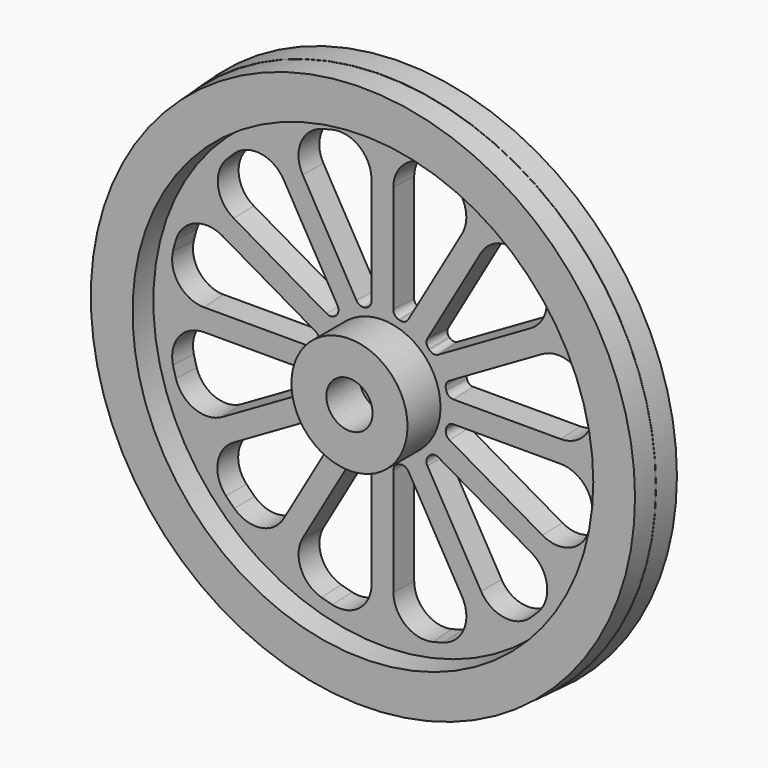
from build123d import *

# Parameters (mm, degrees)
F0_R     = 45
F0_R_2   = 2.5
F1_DEPTH = 4
F1_TAPER = 3
F2_R     = 44.75
F2_R_2   = 37.5
F3_DEPTH = 4
F3_TAPER = 3
F2_R_3   = 9.5
F2_R_4   = 3.7810244817
F4_DEPTH = 6.75


with BuildPart() as f1:
    # F0 (on Front) → F1 (new body)
    with BuildSketch(Plane.XZ):
        Circle(F0_R)
        with BuildLine():
            ThreePointArc((-7.7332465133, -7.8923211231), (-7.4423507552, -8.4710185648), (-7.5670929905, -9.1065895252))
            Line((-7.5670929905, -9.1065895252), (-16.3406060143, -24.3027598432))
            ThreePointArc((-16.3406060143, -24.3027598432), (-19.9521162541, -26.7508493659), (-24.1108143235, -25.4312362061))
            ThreePointArc((-24.1108143235, -25.4312362061), (-24.7875642401, -24.7720770497), (-25.4463003045, -24.0949152961))
            ThreePointArc((-25.4463003045, -24.0949152961), (-26.7634194196, -19.9361159915), (-24.314233181, -16.3261435278))
            Line((-24.314233181, -16.3261435278), (-9.1152709039, -7.5577626855))
            ThreePointArc((-9.1152709039, -7.5577626855), (-8.4792961859, -7.433281772), (-7.9005463904, -7.7248431103))
            ThreePointArc((-7.9005463904, -7.7248431103), (-7.8173449687, -7.8090301566), (-7.7332465133, -7.8923211231))
        make_face(mode=Mode.SUBTRACT)
        with BuildLine():
            ThreePointArc((-2.7391846437, -10.593931168), (-2.198840383, -10.949853931), (-1.9895139163, -11.562091927))
            Line((-1.9895139163, -11.562091927), (-1.9895139163, -29.1725515023))
            ThreePointArc((-1.9895139163, -29.1725515023), (-3.8931408332, -33.0984238551), (-8.1545034084, -34.0349376947))
            ThreePointArc((-8.1545034084, -34.0349376947), (-9.0521205265, -33.8072776735), (-9.943400166, -33.5559488445))
            ThreePointArc((-9.943400166, -33.5559488445), (-13.1669817727, -30.6145465635), (-12.8529677555, -26.2619931806))
            Line((-12.8529677555, -26.2619931806), (-4.0476369691, -11.0107128811))
            ThreePointArc((-4.0476369691, -11.0107128811), (-3.5606556514, -10.5853342663), (-2.9151968467, -10.5468543865))
            ThreePointArc((-2.9151968467, -10.5468543865), (-2.8272887305, -10.5707591278), (-2.7391846437, -10.593931168))
        make_face(mode=Mode.SUBTRACT)
        with BuildLine():
            ThreePointArc((-10.6105647342, -2.9217038441), (-10.6466062006, -3.5698264202), (-11.0729908098, -4.0592730731))
            Line((-11.0729908098, -4.0592730731), (-26.3058778862, -12.8539845272))
            ThreePointArc((-26.3058778862, -12.8539845272), (-30.6593196424, -13.1676440727), (-33.6003766949, -9.9425827014))
            ThreePointArc((-33.6003766949, -9.9425827014), (-33.8498412022, -9.056959501), (-34.0759672052, -8.1650917842))
            ThreePointArc((-34.0759672052, -8.1650917842), (-33.1395104449, -3.9036682123), (-29.2136055224, -2))
            Line((-29.2136055224, -2), (-11.6257419359, -2))
            ThreePointArc((-11.6257419359, -2), (-11.0154594792, -2.2078161053), (-10.658830069, -2.7448893541))
            ThreePointArc((-10.658830069, -2.7448893541), (-10.6350739002, -2.8333993725), (-10.6105647342, -2.9217038441))
        make_face(mode=Mode.SUBTRACT)
        with BuildLine():
            ThreePointArc((2.9382255406, -10.6003221966), (3.5840465412, -10.6384722929), (4.0713623572, -11.0639878509))
            Line((4.0713623572, -11.0639878509), (12.8514282804, -26.2715081238))
            ThreePointArc((12.8514282804, -26.2715081238), (13.165313275, -30.6243849191), (9.9411929772, -33.5656615961))
            ThreePointArc((9.9411929772, -33.5656615961), (9.0569154603, -33.8149854138), (8.1663995562, -34.04101753))
            ThreePointArc((8.1663995562, -34.04101753), (3.9041962095, -33.1052906865), (2, -29.1789693942))
            Line((2, -29.1789693942), (2, -11.6189500386))
            ThreePointArc((2, -11.6189500386), (2.209430585, -11.0065776029), (2.75, -10.6507042021))
            ThreePointArc((2.75, -10.6507042021), (2.8442243296, -10.6259299811), (2.9382255406, -10.6003221966))
        make_face(mode=Mode.SUBTRACT)
        with BuildLine():
            Line((16.3149614017, -24.2705234635), (7.5370365835, -9.0667116934))
            ThreePointArc((7.5370365835, -9.0667116934), (7.4122579998, -8.4314066364), (7.7028068217, -7.8528190523))
            ThreePointArc((7.7028068217, -7.8528190523), (7.77613579, -7.7802128618), (7.8487804072, -7.7069219614))
            ThreePointArc((7.8487804072, -7.7069219614), (8.4272605204, -7.4167118159), (9.0623058988, -7.5415258269))
            Line((9.0623058988, -7.5415258269), (24.266213128, -16.3195057584))
            ThreePointArc((24.266213128, -16.3195057584), (26.7144203347, -19.9318267871), (25.3935619332, -24.0909029855))
            ThreePointArc((25.3935619332, -24.0909029855), (24.7482203506, -24.7533873195), (24.0856013098, -25.398590588))
            ThreePointArc((24.0856013098, -25.398590588), (19.9267659413, -26.7186557188), (16.3149614017, -24.2705234635))
        make_face(mode=Mode.SUBTRACT)
        with BuildLine():
            ThreePointArc((10.6532945924, -2.7551236961), (11.0083883053, -2.2110525037), (11.6228489208, -2))
            Line((11.6228489208, -2), (29.1749099017, -2))
            ThreePointArc((29.1749099017, -2), (33.1012800508, -3.9042581741), (34.0369212195, -8.166553019))
            ThreePointArc((34.0369212195, -8.166553019), (33.810226987, -9.0594230171), (33.5601149521, -9.9460182339))
            ThreePointArc((33.5601149521, -9.9460182339), (30.6186785088, -13.1694532637), (26.266213128, -12.8554041433))
            Line((26.266213128, -12.8554041433), (11.0667492889, -4.0799896042))
            ThreePointArc((11.0667492889, -4.0799896042), (10.6421732371, -3.5949617392), (10.6017741173, -2.9516229757))
            ThreePointArc((10.6017741173, -2.9516229757), (10.6279778444, -2.8534896152), (10.6532945924, -2.7551236961))
        make_face(mode=Mode.SUBTRACT)
        with BuildLine():
            Line((-26.3071791418, 12.8790558824), (-11.0623058988, 4.0774242117))
            ThreePointArc((-11.0623058988, 4.0774242117), (-10.6366911053, 3.589865787), (-10.5987804072, 2.9437822406))
            ThreePointArc((-10.5987804072, 2.9437822406), (-10.6251840892, 2.8470094961), (-10.6507042021, 2.75))
            ThreePointArc((-10.6507042021, 2.75), (-11.0065776029, 2.209430585), (-11.6189500386, 2))
            Line((-11.6189500386, 2), (-29.2222133799, 2))
            ThreePointArc((-29.2222133799, 2), (-33.1480149589, 3.9035371854), (-34.0846528227, 8.1647672152))
            ThreePointArc((-34.0846528227, 8.1647672152), (-33.8546596097, 9.0713287025), (-33.6005588312, 9.971430587))
            ThreePointArc((-33.6005588312, 9.971430587), (-30.6587916322, 13.1934451123), (-26.3071791418, 12.8790558824))
        make_face(mode=Mode.SUBTRACT)
        with BuildLine():
            ThreePointArc((-7.8003125205, 7.7411142124), (-8.3776933841, 7.4543279944), (-9.0101075684, 7.5794970639))
            Line((-9.0101075684, 7.5794970639), (-24.2491112391, 16.3777399354))
            ThreePointArc((-24.2491112391, 16.3777399354), (-26.6979620211, 19.9945115465), (-25.3702641963, 24.1556562839))
            ThreePointArc((-25.3702641963, 24.1556562839), (-24.7474264449, 24.7933644398), (-24.1085643014, 25.415018458))
            ThreePointArc((-24.1085643014, 25.415018458), (-19.9496408592, 26.7356776298), (-16.337458819, 24.287632337))
            Line((-16.337458819, 24.287632337), (-7.539236998, 9.0499224532))
            ThreePointArc((-7.539236998, 9.0499224532), (-7.4143630422, 8.4151552362), (-7.7041957074, 7.8367782392))
            ThreePointArc((-7.7041957074, 7.8367782392), (-7.7524016762, 7.7890944865), (-7.8003125205, 7.7411142124))
        make_face(mode=Mode.SUBTRACT)
        with BuildLine():
            Line((-2.0123611874, 29.1427127044), (-2.0123611874, 11.5501757128))
            ThreePointArc((-2.0123611874, 11.5501757128), (-2.2210443156, 10.9387694581), (-2.759996404, 10.5825435429))
            ThreePointArc((-2.759996404, 10.5825435429), (-2.8503500142, 10.5585658489), (-2.940495374, 10.533816732))
            ThreePointArc((-2.940495374, 10.533816732), (-3.5873769901, 10.5711930416), (-4.0755489465, 10.9972692728))
            Line((-4.0755489465, 10.9972692728), (-12.866523076, 26.2348862376))
            ThreePointArc((-12.866523076, 26.2348862376), (-13.1800743807, 30.5852253703), (-9.95941029, 33.5264985307))
            ThreePointArc((-9.95941029, 33.5264985307), (-9.0738872581, 33.7769229961), (-8.1820821438, 34.0039628404))
            ThreePointArc((-8.1820821438, 34.0039628404), (-3.9178987771, 33.0700912692), (-2.0123611874, 29.1427127044))
        make_face(mode=Mode.SUBTRACT)
        Circle(F0_R_2, mode=Mode.SUBTRACT)
        with BuildLine():
            ThreePointArc((10.5934280226, 2.962985442), (10.6305095748, 3.6099758382), (11.0564669338, 4.0983731587))
            Line((11.0564669338, 4.0983731587), (26.2635645877, 12.8781950828))
            ThreePointArc((26.2635645877, 12.8781950828), (30.614280615, 13.1929416021), (33.5563948117, 9.9724200022))
            ThreePointArc((33.5563948117, 9.9724200022), (33.8107658104, 9.0726461836), (34.0410151181, 8.1663996465))
            ThreePointArc((34.0410151181, 8.1663996465), (33.105288325, 3.9041962459), (29.1789670039, 2))
            Line((29.1789670039, 2), (11.6189500386, 2))
            ThreePointArc((11.6189500386, 2), (11.0065776029, 2.209430585), (10.6507042021, 2.75))
            ThreePointArc((10.6507042021, 2.75), (10.6225999263, 2.8566362746), (10.5934280226, 2.962985442))
        make_face(mode=Mode.SUBTRACT)
        with BuildLine():
            Line((1.9876388126, 11.5519245043), (1.9876388126, 29.1435745043))
            ThreePointArc((1.9876388126, 29.1435745043), (3.8915885178, 33.0697014218), (8.1534278415, 34.0057690644))
            ThreePointArc((8.1534278415, 34.0057690644), (9.04875886, 33.7785535262), (9.9377762068, 33.5277693754))
            ThreePointArc((9.9377762068, 33.5277693754), (13.1615347817, 30.5851307802), (12.8457264829, 26.2317405646))
            Line((12.8457264829, 26.2317405646), (4.0420576523, 11.0010494742))
            ThreePointArc((4.0420576523, 11.0010494742), (3.5551990136, 10.5760538516), (2.9100855475, 10.5375671099))
            ThreePointArc((2.9100855475, 10.5375671099), (2.8237624721, 10.5610266542), (2.7372503245, 10.5837790581))
            ThreePointArc((2.7372503245, 10.5837790581), (2.1969465563, 10.9397106888), (1.9876388126, 11.5519245043))
        make_face(mode=Mode.SUBTRACT)
        with BuildLine():
            ThreePointArc((7.711421059, 7.9064918101), (7.429512731, 8.4822662568), (7.5551778026, 9.1109130642))
            Line((7.5551778026, 9.1109130642), (16.2987383406, 24.2552041553))
            ThreePointArc((16.2987383406, 24.2552041553), (19.9104413439, 26.7033216694), (24.0692293488, 25.3834124764))
            ThreePointArc((24.0692293488, 25.3834124764), (24.6978102611, 24.7722344309), (25.3108768464, 24.1454953078))
            ThreePointArc((25.3108768464, 24.1454953078), (26.6422292233, 19.9832510332), (24.193036492, 16.3641031339))
            Line((24.193036492, 16.3641031339), (9.0449681626, 7.6183618062))
            ThreePointArc((9.0449681626, 7.6183618062), (8.4053907466, 7.4941760482), (7.8250613438, 7.7903164843))
            ThreePointArc((7.8250613438, 7.7903164843), (7.7684514675, 7.8486098251), (7.711421059, 7.9064918101))
        make_face(mode=Mode.SUBTRACT)
    extrude(amount=F1_DEPTH, taper=F1_TAPER)

    # F2 (on face) → F3 (join)
    with BuildSketch(Plane.XZ.offset(4)):
        Circle(F2_R)
        Circle(F2_R_2, mode=Mode.SUBTRACT)
    extrude(amount=F3_DEPTH, taper=F3_TAPER)

    # F2 (on face) → F4 (join)
    with BuildSketch(Plane.XZ.offset(4)):
        Circle(F2_R_3)
        Circle(F2_R_4, mode=Mode.SUBTRACT)
    extrude(amount=F4_DEPTH)


solid = f1.part
